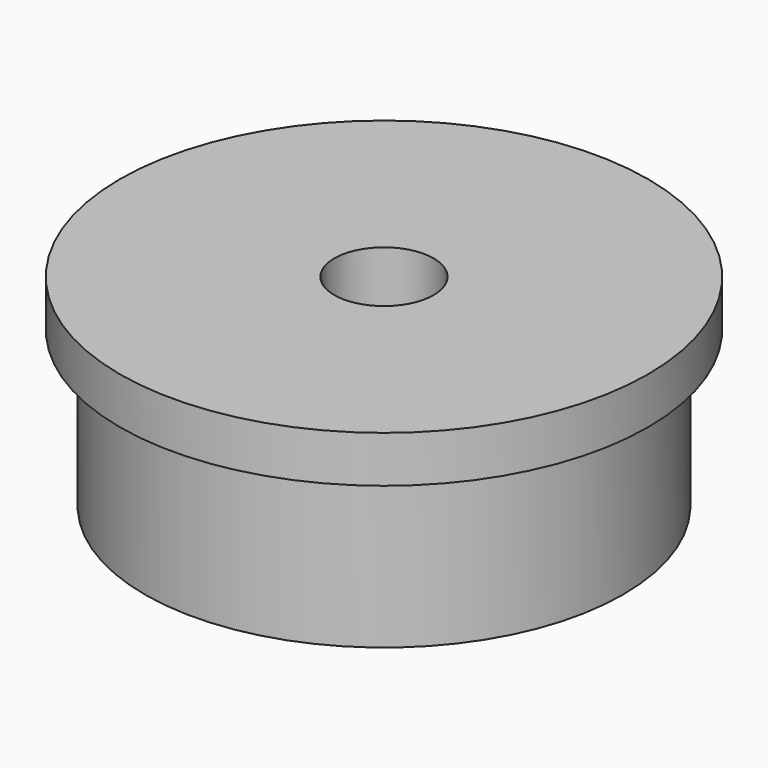
from build123d import *

# Parameters (mm, degrees)
SKETCH_R     = 17
PAD_DEPTH    = 3
SKETCH001_R  = 15.4
PAD001_DEPTH = 10
SKETCH002_R  = 3.2
POCKET_DEPTH = 13.001


with BuildPart() as part:
    # Sketch → Pad (new body)
    with BuildSketch(Plane.XY):
        Circle(SKETCH_R)
    extrude(amount=PAD_DEPTH)

    # Sketch001 (on Face2 of Pad) → Pad001 (join)
    with BuildSketch(Plane(origin=(0, 0, 0), x_dir=(1, 0, 0), z_dir=(0, 0, -1))):
        Circle(SKETCH001_R)
    extrude(amount=PAD001_DEPTH)

    # Sketch002 → Pocket (cut, through all)
    with BuildSketch(Plane.XY.offset(3)):
        Circle(SKETCH002_R)
    extrude(amount=-POCKET_DEPTH, mode=Mode.SUBTRACT)


solid = part.part
